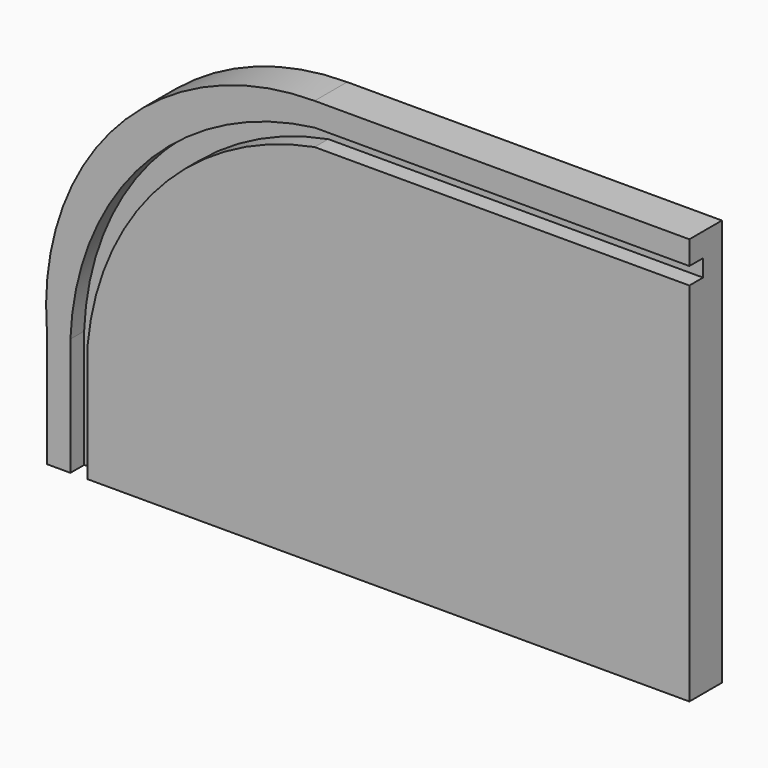
from build123d import *

# Parameters (mm, degrees)
F1_DEPTH = 19
F3_DEPTH = 8


with BuildPart() as f1:
    # F0 (on Front) → F1 (new body)
    with BuildSketch(Plane.XZ):
        with BuildLine():
            ThreePointArc((-175, 190), (-266.991847, 149.807266), (-300, 55))
            Line((-300, 55), (-300, 0))
            Line((-300, 0), (0, 0))
            Line((0, 0), (0, 190))
            Line((0, 190), (-175, 190))
        make_face()
    extrude(amount=F1_DEPTH)

    # F2 (on face) → F3 (cut)
    with BuildSketch(Plane.XZ.offset(19)):
        with BuildLine():
            Line((0, 171), (0, 179))
            Line((0, 179), (-175, 179))
            ThreePointArc((-175, 179), (-254.798891, 137.960271), (-289, 55))
            Line((-289, 55), (-289, 0))
            Line((-289, 0), (-281, 0))
            Line((-281, 0), (-281, 55))
            ThreePointArc((-281, 55), (-247.509978, 130.828083), (-175, 171))
            Line((-175, 171), (0, 171))
        make_face()
    extrude(amount=-F3_DEPTH, mode=Mode.SUBTRACT)


solid = f1.part
